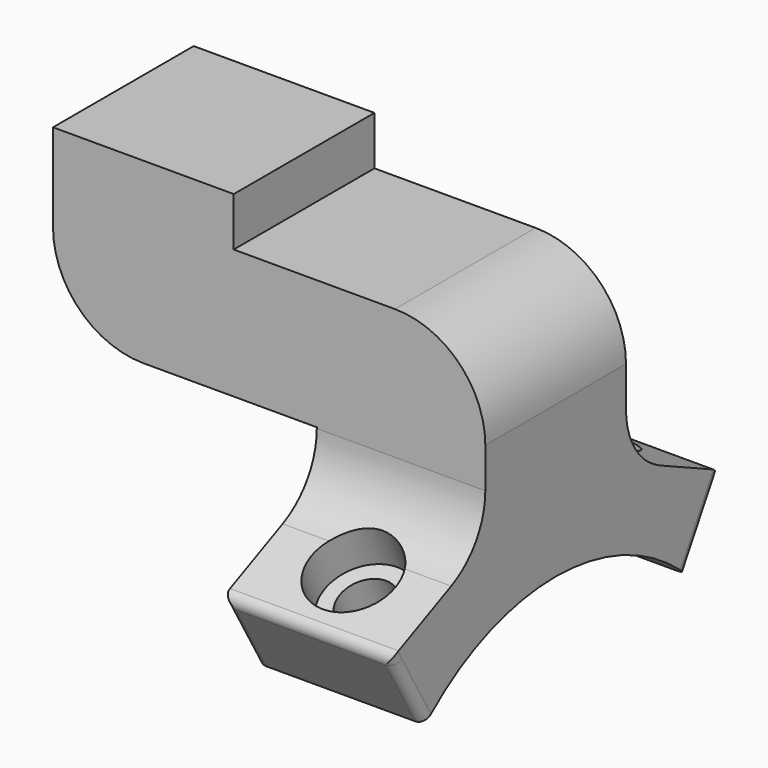
from build123d import *

# Parameters (mm, degrees)
F1_DEPTH        = 18
F2_R            = 18.5
F4_DEPTH        = 34.5
F5_R            = 15
F7_DEPTH        = 34.5
F11_D           = 11
F11_CBORE_D     = 17.25
F11_CBORE_DEPTH = 10
F14_D           = 11
F14_CBORE_D     = 17.25
F14_CBORE_DEPTH = 10
F15_R           = 2


with BuildPart() as f1:
    # F0 (on Front) → F1 (new body, symmetric)
    with BuildSketch(Plane.XZ):
        Polygon((-88.5, 0), (0, 0), (0, 26.5), (-51.5, 26.5), (-51.5, 36.5), (-88.5, 36.5), align=None)
    extrude(amount=F1_DEPTH, both=True)

    # F2
    f2_edges = [f1.edges().sort_by_distance(p)[0] for p in [
        (0, 0, 26.5),
        (-88.5, 0, 0),
    ]]
    fillet(f2_edges, radius=F2_R)

    # F3 (on face) → F4 (join)
    with BuildSketch(Plane.YZ):
        with BuildLine():
            Line((-41.0676798294, -22.9138953121), (-33.4179196431, -36.1636686207))
            ThreePointArc((-33.4179196431, -36.1636686207), (0, -23), (33.4179196431, -36.1636686207))
            Line((33.4179196431, -36.1636686207), (41.0676798294, -22.9138953121))
            ThreePointArc((41.0676798294, -22.9138953121), (30.1704829466, -15.557622669), (18, -10.5833898689))
            ThreePointArc((18, -10.5833898689), (0, -8), (-18, -10.5833898689))
            ThreePointArc((-18, -10.5833898689), (-30.1704829466, -15.557622669), (-41.0676798294, -22.9138953121))
        make_face()
        with BuildLine():
            Line((-18, 0), (-18, -10.5833898689))
            ThreePointArc((-18, -10.5833898689), (0, -8), (18, -10.5833898689))
            Line((18, -10.5833898689), (18, 0))
            Line((18, 0), (-18, 0))
        make_face()
    extrude(amount=-F4_DEPTH)

    # F5
    f5_edges = [f1.edges().sort_by_distance(p)[0] for p in [
        (-17.25, -18, -10.58339),
        (-17.25, 18, -10.58339),
    ]]
    fillet(f5_edges, radius=F5_R)

    # F6 (on face) → F7 (join)
    with BuildSketch(Plane.YZ):
        Polygon((-41.0676798294, -22.9138953121), (-26.7341772152, -13.8511928873), (-42.1958866534, -20.9597837716), align=None)
        Polygon((42.1958866534, -20.9597837716), (26.7341772152, -13.8511928873), (41.0676798294, -22.9138953121), align=None)
    extrude(amount=-F7_DEPTH)

    # F11 (through all)
    with Locations(Plane(origin=(0, -0.1973911234, 0.4293402511), x_dir=(1, 0, 0), z_dir=(0, -0.417721519, 0.9085751111))):
        with Locations((-17.25, -33.8857312325)):
            CounterBoreHole(F11_D / 2, F11_CBORE_D / 2, F11_CBORE_DEPTH)

    # F14 (through all)
    with Locations(Plane(origin=(0, 0.1973911234, 0.4293402511), x_dir=(1, 0, 0), z_dir=(0, 0.417721519, 0.9085751111))):
        with Locations((-17.25, 33.8857312325)):
            CounterBoreHole(F14_D / 2, F14_CBORE_D / 2, F14_CBORE_DEPTH)

    # F15
    f15_edges = [f1.edges().sort_by_distance(p)[0] for p in [
        (0, -37.806903, -28.561726),
        (-17.25, -42.195887, -20.959784),
        (-34.5, -37.806903, -28.561726),
        (-17.25, 42.195887, -20.959784),
        (0, 37.806903, -28.561726),
        (-34.5, 37.806903, -28.561726),
    ]]
    fillet(f15_edges, radius=F15_R)


solid = f1.part
